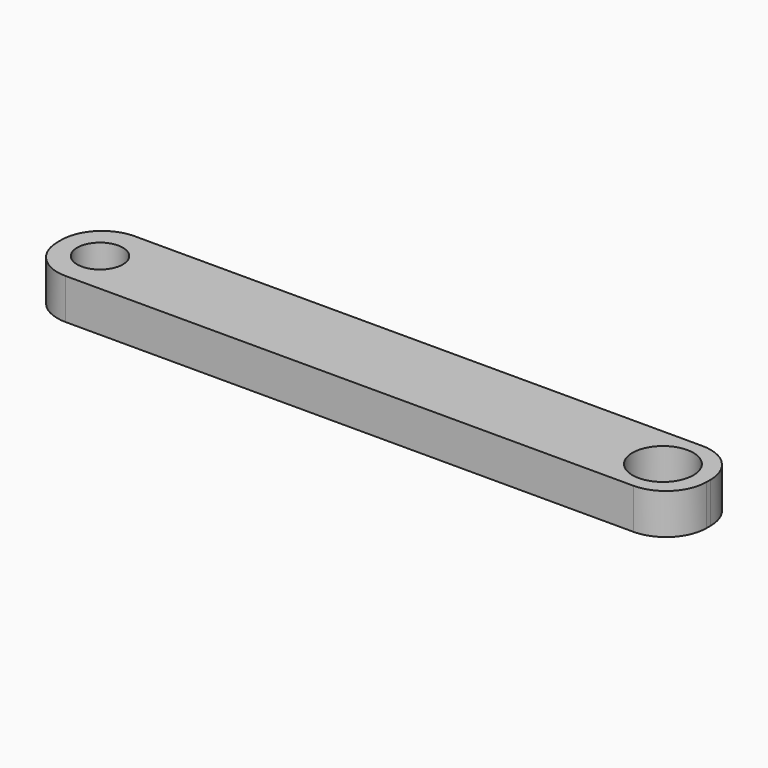
from build123d import *

# Parameters (mm, degrees)
F0_W     = 64
F0_H     = 8.5
F0_R     = 2.25
F0_R_2   = 3
F1_DEPTH = 2
F2_R     = 4


with BuildPart() as f1:
    # F0 (on Top) → F1 (new body, symmetric)
    with BuildSketch(Plane.XY):
        Rectangle(F0_W, F0_H)
        with Locations((-28, 0)):
            Circle(F0_R, mode=Mode.SUBTRACT)
        with Locations((27.5, 0)):
            Circle(F0_R_2, mode=Mode.SUBTRACT)
    extrude(amount=F1_DEPTH, both=True)

    # F2
    f2_edges = [f1.edges().sort_by_distance(p)[0] for p in [
        (-32, 4.25, 0),
        (-32, -4.25, 0),
        (32, 4.25, 0),
        (32, -4.25, 0),
    ]]
    fillet(f2_edges, radius=F2_R)


solid = f1.part
